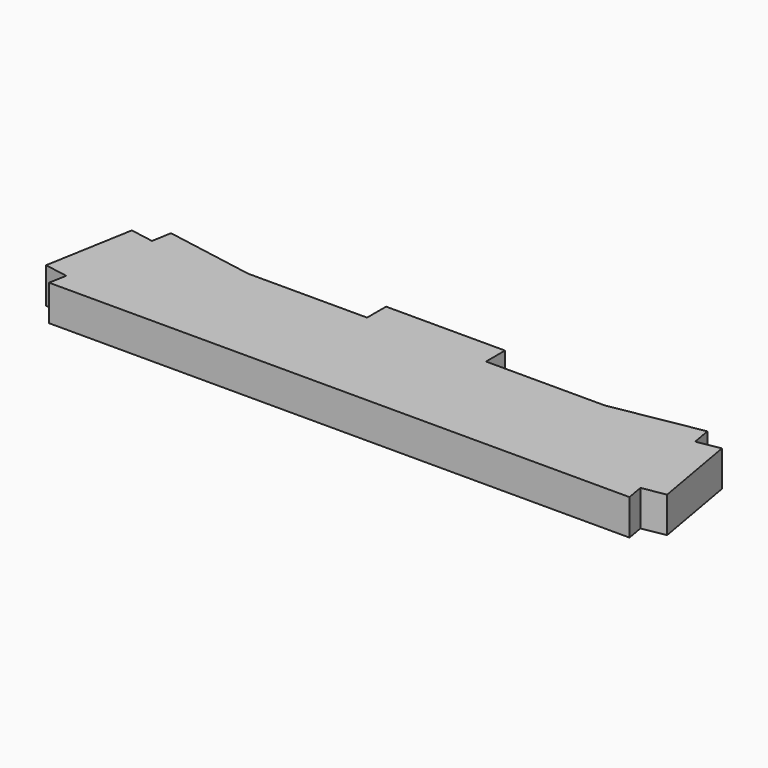
from build123d import *

# Parameters (mm, degrees)
PAD_DEPTH = 18


with BuildPart() as part:
    # Sketch → Pad (new body)
    with BuildSketch(Plane.XY):
        Polygon((0, 67), (30, 67), (30, 55), (90, 55), (135.301157, 62.987816), (137.037638, 53.139739), (148.855331, 55.223517), (156.669499, 10.907168), (144.851806, 8.82339), (146.407608, 0), (0, 0), align=None)
    pad = extrude(amount=PAD_DEPTH)

    # Mirrored: Pad across Sketch V_Axis
    add(pad.mirror(Plane(origin=(0, 0, 0), x_dir=(0, 0, 1), z_dir=(1, 0, 0))))


solid = part.part
